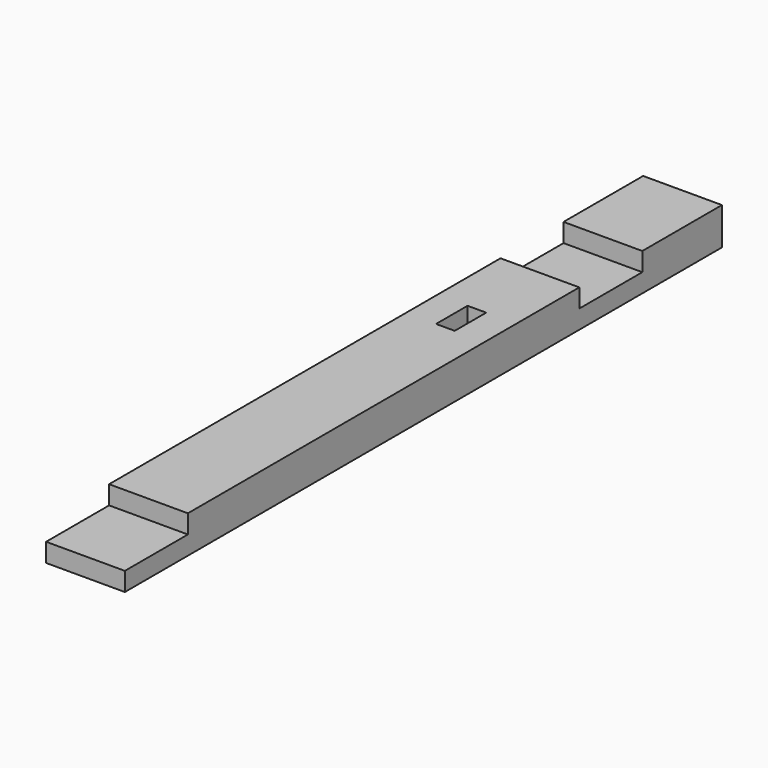
from build123d import *

# Parameters (mm, degrees)
SKETCH_W                 = 95
SKETCH_H                 = 900
PAD_DEPTH                = 45
SKETCH001_W              = 95
SKETCH001_H              = 95
SKETCH001_W_2            = 22.5
SKETCH001_H_2            = 47.5
POCKET_DEPTH             = 22.5
SKETCH011_W              = 22.5
SKETCH011_H              = 47.5
POCKET006_DEPTH          = 22.5
CLONE002_PLACEMENT_ANGLE = 180


with BuildPart() as part:
    # Sketch → Pad (new body)
    with BuildSketch(Plane.XY):
        with Locations((47.5, 450)):
            Rectangle(SKETCH_W, SKETCH_H)
    extrude(amount=-PAD_DEPTH)

    # Sketch001 (on Face5 of Pad) → Pocket (cut)
    with BuildSketch(Plane.XY):
        with Locations((47.5, 167.5)):
            Rectangle(SKETCH001_W, SKETCH001_H)
        with Locations((47.5, 852.5)):
            Rectangle(SKETCH001_W, SKETCH001_H)
        with Locations((47.5, 333.75)):
            Rectangle(SKETCH001_W_2, SKETCH001_H_2)
    extrude(amount=-POCKET_DEPTH, mode=Mode.SUBTRACT)

    # Sketch011 (on Face4 of Pocket) → Pocket006 (cut)
    with BuildSketch(Plane(origin=(0, 0, -45), x_dir=(1, 0, 0), z_dir=(0, 0, -1))):
        with Locations((47.5, -333.75)):
            Rectangle(SKETCH011_W, SKETCH011_H)
    extrude(amount=-POCKET006_DEPTH, mode=Mode.SUBTRACT)


with BuildPart() as part_1:
    # Clone002 placement: moved
    add(part.part.moved(Location((95, 900, 0))).rotate(Axis((95, 900, 0), (0, 0, 1)), CLONE002_PLACEMENT_ANGLE))


solid = part_1.part
